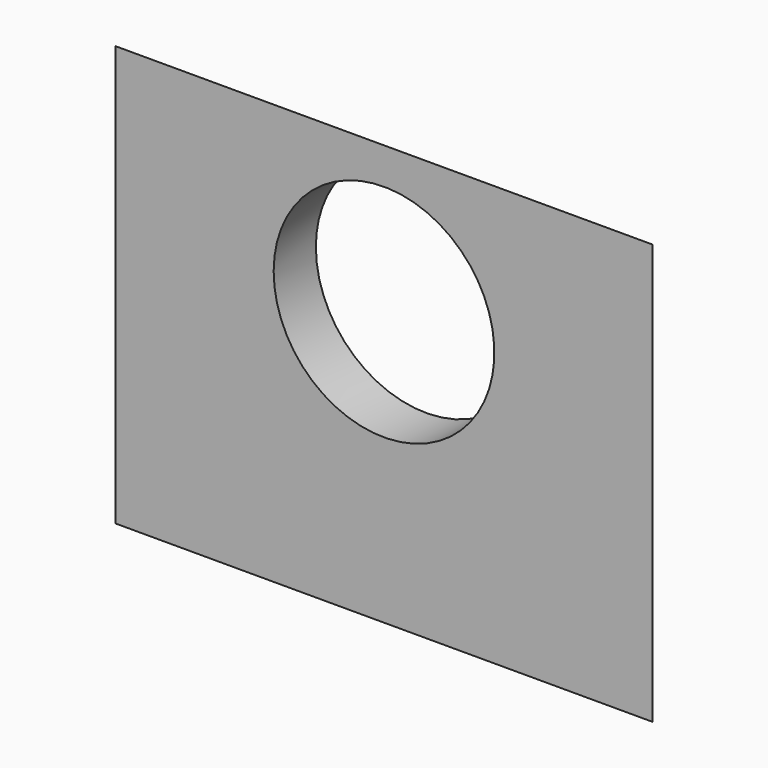
from build123d import *

# Parameters (mm, degrees)
PAD013_DEPTH         = 9.4
POCKET039_DEPTH      = 100
POCKET039_DEPTH_BACK = 100
SKETCH049_R          = 2.3
POCKET040_DEPTH      = 1.101
CHAMFER010_SIZE      = 0.5


with BuildPart() as part:
    # Sketch047 (on Face1 of ShapeBinder008) → Pad013 (new body)
    with BuildSketch(Plane.XY.offset(4.85)):
        Polygon((-4.5, -10), (-5.6, -11.1), (5.6, -11.1), (4.5, -10), align=None)
    extrude(amount=-PAD013_DEPTH)

    # Sketch048 (on DatumPlane) → Pocket039 (cut, two sides)
    with BuildSketch(Plane(origin=(-4.866667, -10.366667, 1.716667), x_dir=(0, -1, 0), z_dir=(-1, 0, 0))) as pocket039_sk:
        Polygon((0.833333, 2.591912), (-0.366667, 1.391912), (-1.166667, 1.391912), (-1.166667, 3.391912), (0.833333, 3.391912), align=None)
    extrude(amount=-POCKET039_DEPTH, mode=Mode.SUBTRACT)
    extrude(pocket039_sk.sketch, amount=POCKET039_DEPTH_BACK, mode=Mode.SUBTRACT)

    # Sketch049 (on Face5 of Pocket039) → Pocket040 (cut, through all)
    with BuildSketch(Plane(origin=(0, -10, 0), x_dir=(-1, 0, 0), z_dir=(0, 1, 0))):
        with Locations((0, 1.15)):
            Circle(SKETCH049_R)
    extrude(amount=-POCKET040_DEPTH, mode=Mode.SUBTRACT)

    # Chamfer010
    chamfer010_edges = [part.edges().sort_by_distance(p)[0] for p in [
        (0, -10, -4.55),
    ]]
    chamfer(chamfer010_edges, length=CHAMFER010_SIZE)


solid = part.part
